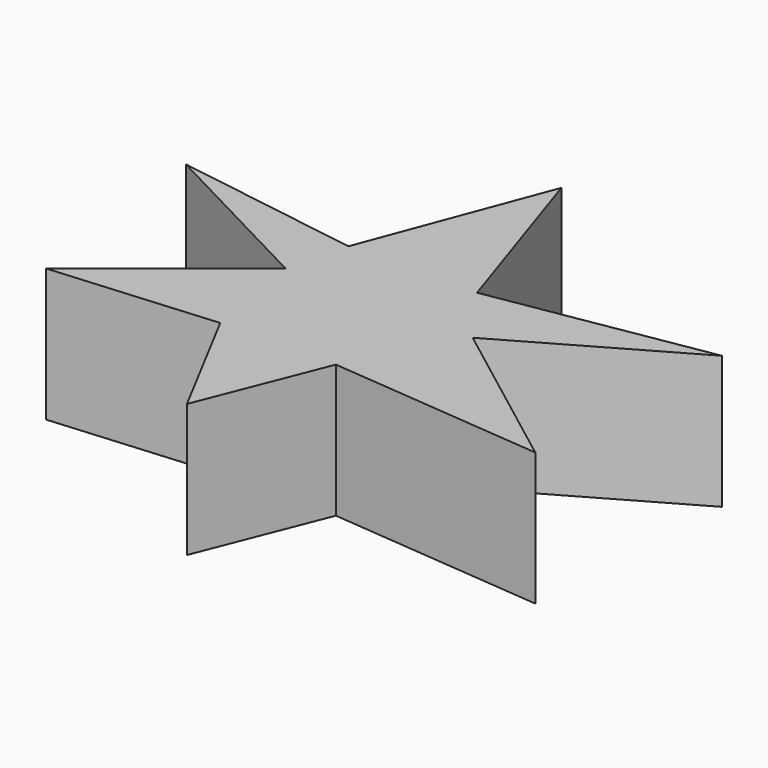
from build123d import *

# Parameters (mm, degrees)
PAD_DEPTH = 20


with BuildPart() as part:
    # Sketch → Pad (new body)
    with BuildSketch(Plane.XY):
        Polygon((0, 36.274509), (8.932459, 9.25926), (41.394341, 14.705885), (15.686274, 0), (39.651417, -18.191723), (7.407409, -15.359476), (0, -34.09586), (-9.803921, -15.577343), (-34.422657, -17.538128), (-12.4183, 0), (-38.126362, 13.398695), (-10.239649, 9.041393), align=None)
    extrude(amount=PAD_DEPTH)


solid = part.part
